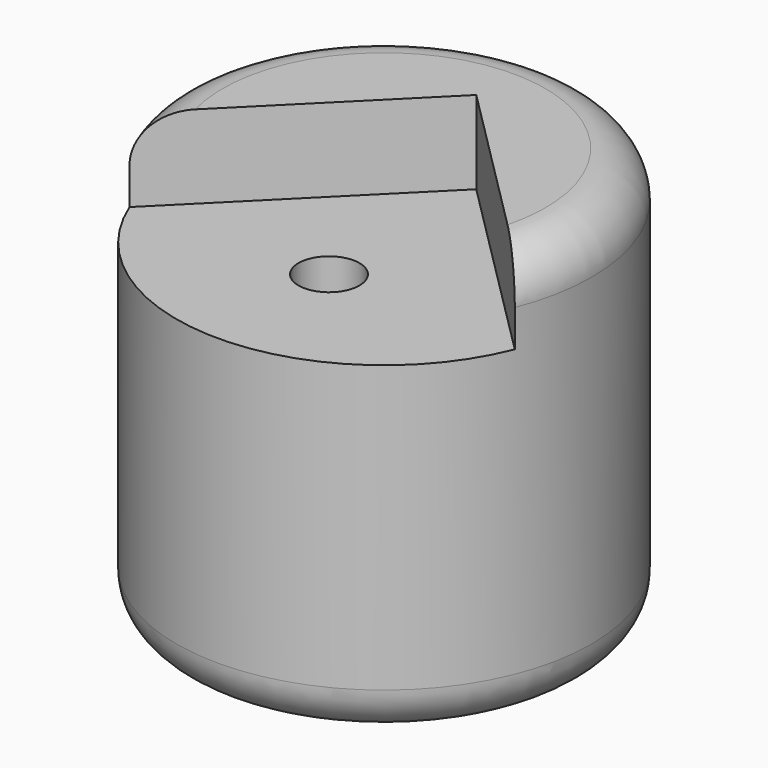
from build123d import *

# Parameters (mm, degrees)
F0_R     = 22.5
F1_DEPTH = 22.5
F3_DEPTH = 9
F4_R     = 5
F5_R     = 5
F7_D     = 6.6
F8_R     = 8.4070446973
F8_R_2   = 3.3
F9_DEPTH = 10


with BuildPart() as f1:
    # F0 (on Top) → F1 (new body, symmetric)
    with BuildSketch(Plane.XY):
        Circle(F0_R)
    extrude(amount=F1_DEPTH, both=True)

    # F2 (on face) → F3 (cut)
    with BuildSketch(Plane.XY.offset(22.5)):
        with BuildLine():
            Line((20.8808748884, -8.3808748884), (0, 12.5))
            Line((0, 12.5), (-20.8808748884, -8.3808748884))
            ThreePointArc((-20.8808748884, -8.3808748884), (0, -22.5), (20.8808748884, -8.3808748884))
        make_face()
    extrude(amount=-F3_DEPTH, mode=Mode.SUBTRACT)

    # F4
    f4_edges = [f1.edges().sort_by_distance(p)[0] for p in [
        (-22.5, 0, -22.5),
    ]]
    fillet(f4_edges, radius=F4_R)

    # F5
    f5_edges = [f1.edges().sort_by_distance(p)[0] for p in [
        (-4.267922, 22.091511, 22.5),
    ]]
    fillet(f5_edges, radius=F5_R)

    # F7 (through all)
    with Locations(Plane.XY.offset(13.5)):
        with Locations((0, -7.456140127)):
            Hole(F7_D / 2)

    # F8 (on face) → F9 (cut)
    with BuildSketch(Plane(origin=(0, 0, -22.5), x_dir=(1, 0, 0), z_dir=(0, 0, -1))):
        with Locations((0, 7.456140127)):
            Circle(F8_R)
        with Locations((0, 7.456140127)):
            Circle(F8_R_2, mode=Mode.SUBTRACT)
    extrude(amount=-F9_DEPTH, mode=Mode.SUBTRACT)


solid = f1.part
